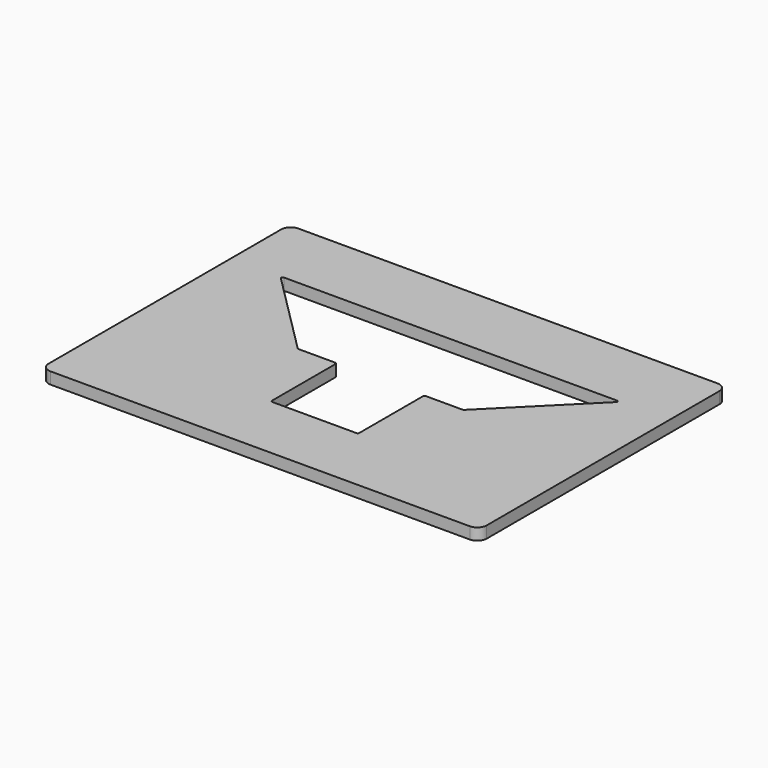
from build123d import *

# Parameters (mm, degrees)
F1_DEPTH = 6.35
F3_DEPTH = 25.4
F5_DEPTH = 25.4


with BuildPart() as f1:
    # F0 (on Top) → F1 (new body)
    with BuildSketch(Plane.XY):
        with BuildLine():
            Line((113.9825, 84.1375), (-113.9825, 84.1375))
            ThreePointArc((-113.9825, 84.1375), (-117.574602, 82.649602), (-119.0625, 79.0575))
            Line((-119.0625, 79.0575), (-119.0625, -79.0575))
            ThreePointArc((-119.0625, -79.0575), (-117.574602, -82.649602), (-113.9825, -84.1375))
            Line((-113.9825, -84.1375), (113.9825, -84.1375))
            ThreePointArc((113.9825, -84.1375), (117.574602, -82.649602), (119.0625, -79.0575))
            Line((119.0625, -79.0575), (119.0625, 79.0575))
            ThreePointArc((119.0625, 79.0575), (117.574602, 82.649602), (113.9825, 84.1375))
        make_face()
    extrude(amount=F1_DEPTH)

    # F2 (on face) → F3 (cut)
    with BuildSketch(Plane.XY.offset(6.35)):
        Polygon((89.408, 43.8785), (0, 43.8785), (-89.408, 43.8785), (-44.45, -1.0795), (-22.479, -1.0795), (-22.479, -46.0375), (0, -46.0375), (22.479, -46.0375), (22.479, -1.0795), (44.45, -1.0795), align=None)
    extrude(amount=-F3_DEPTH, mode=Mode.SUBTRACT)

    # F4 (on face) → F5 (cut)
    with BuildSketch(Plane.XY.offset(6.35)):
        with BuildLine():
            ThreePointArc((-90.573099, 45.1485), (-91.300562, 44.662425), (-91.129875, 43.804324))
            Line((-91.129875, 43.804324), (-45.206675, -2.118876))
            ThreePointArc((-45.206675, -2.118876), (-44.951224, -2.289563), (-44.649899, -2.3495))
            Line((-44.649899, -2.3495), (-24.5364, -2.3495))
            ThreePointArc((-24.5364, -2.3495), (-23.979624, -2.580124), (-23.749, -3.1369))
            Line((-23.749, -3.1369), (-23.749, -46.5201))
            ThreePointArc((-23.749, -46.5201), (-23.518376, -47.076876), (-22.9616, -47.3075))
            Line((-22.9616, -47.3075), (22.9616, -47.3075))
            ThreePointArc((22.9616, -47.3075), (23.518376, -47.076876), (23.749, -46.5201))
            Line((23.749, -46.5201), (23.749, -3.1369))
            ThreePointArc((23.749, -3.1369), (23.979624, -2.580124), (24.5364, -2.3495))
            Line((24.5364, -2.3495), (44.649899, -2.3495))
            ThreePointArc((44.649899, -2.3495), (44.951224, -2.289563), (45.206675, -2.118876))
            Line((45.206675, -2.118876), (91.129875, 43.804324))
            ThreePointArc((91.129875, 43.804324), (91.300562, 44.662425), (90.573099, 45.1485))
            Line((90.573099, 45.1485), (-90.573099, 45.1485))
        make_face()
    extrude(amount=-F5_DEPTH, mode=Mode.SUBTRACT)


solid = f1.part
